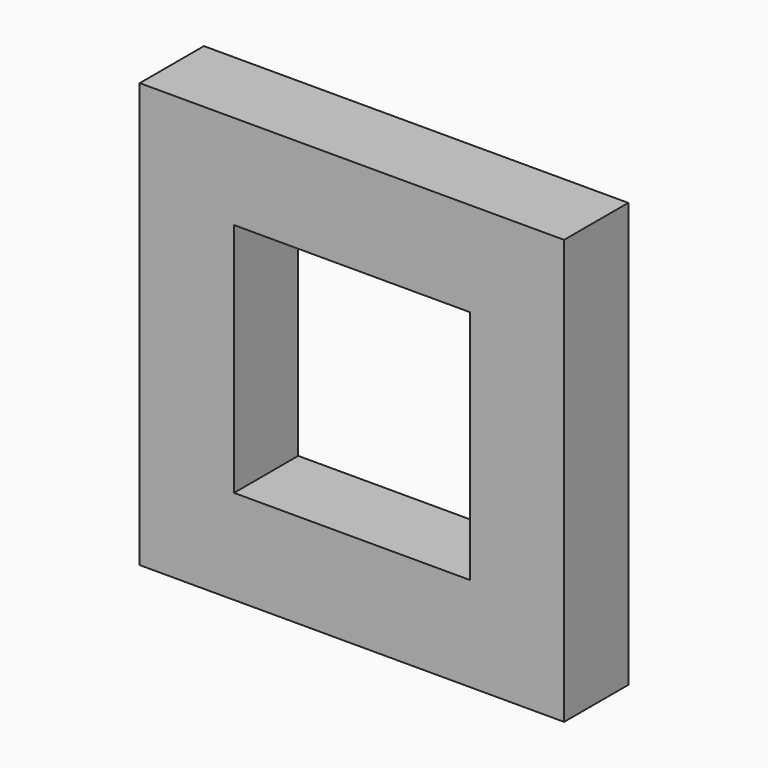
from build123d import *

# Parameters (mm, degrees)
F0_W     = 90
F0_H     = 90
F1_DEPTH = 17
F2_T     = -20


with BuildPart() as f1:
    # F0 (on Front) → F1 (new body)
    with BuildSketch(Plane.XZ):
        with Locations((-2.105616, 3.088611)):
            Rectangle(F0_W, F0_H)
    extrude(amount=F1_DEPTH)

    # F2
    f2_openings = [f1.faces().sort_by_distance(p)[0] for p in [
        (-2.105616, 0, 3.088611),
        (-2.105616, -17, 3.088611),
    ]]
    offset(amount=F2_T, openings=f2_openings)


solid = f1.part
